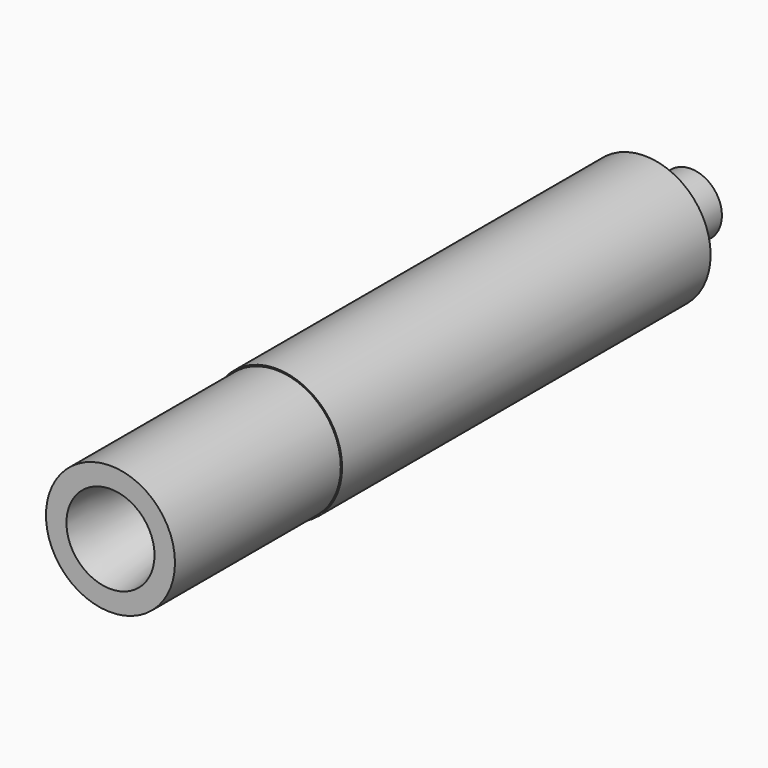
from build123d import *

# Parameters (mm, degrees)
F0_R      = 6
F1_DEPTH  = 100
F0_R_2    = 12.45
F0_R_3    = 9.0550614865
F0_R_4    = 6.35
F2_DEPTH  = 40
F3_R      = 8.5
F4_DEPTH  = 30
F4_TAPER  = 8
F0_R_5    = 12.7
F5_DEPTH  = 88.9
F6_DEPTH  = 5
F7_DEPTH  = 5
F8_R      = 9.0550619
F9_DEPTH  = 5
F10_DEPTH = 5


with BuildPart() as f1:
    # F0 (on Front) → F1 (new body)
    with BuildSketch(Plane.XZ):
        Circle(F0_R)
    extrude(amount=-F1_DEPTH)

    # F0 (on Front) → F2 (join)
    with BuildSketch(Plane.XZ):
        Circle(F0_R_2)
        Circle(F0_R_3, mode=Mode.SUBTRACT)
        Circle(F0_R_3)
        Circle(F0_R_4, mode=Mode.SUBTRACT)
        Circle(F0_R_3)
        Circle(F0_R_4, mode=Mode.SUBTRACT)
        Circle(F0_R_4)
        Circle(F0_R, mode=Mode.SUBTRACT)
        Circle(F0_R)
    extrude(amount=F2_DEPTH)

    # F3 (on face) → F4 (cut)
    with BuildSketch(Plane.XZ.offset(40)):
        Circle(F3_R)
    extrude(amount=-F4_DEPTH, taper=F4_TAPER, mode=Mode.SUBTRACT)


with BuildPart() as f5:
    # F0 (on Front) → F5 (new body)
    with BuildSketch(Plane.XZ):
        Circle(F0_R_5)
        Circle(F0_R_2, mode=Mode.SUBTRACT)
        Circle(F0_R_2)
        Circle(F0_R_3, mode=Mode.SUBTRACT)
        Circle(F0_R_3)
        Circle(F0_R_4, mode=Mode.SUBTRACT)
    extrude(amount=-F5_DEPTH)

    # F0 (on Front) → F6 (cut)
    with BuildSketch(Plane.XZ):
        Circle(F0_R_3)
        Circle(F0_R_4, mode=Mode.SUBTRACT)
    extrude(amount=-F6_DEPTH, mode=Mode.SUBTRACT)

    # F8 (on face) → F9 (cut)
    with BuildSketch(Plane(origin=(0, 88.9, 0), x_dir=(-1, 0, 0), z_dir=(0, 1, 0))):
        Circle(F8_R)
    extrude(amount=-F9_DEPTH, mode=Mode.SUBTRACT)


with BuildPart() as f7:
    # F0 (on Front) → F7 (new body)
    with BuildSketch(Plane.XZ):
        Circle(F0_R_3)
        Circle(F0_R_4, mode=Mode.SUBTRACT)
        Circle(F0_R_4)
        Circle(F0_R, mode=Mode.SUBTRACT)
    extrude(amount=-F7_DEPTH)


with BuildPart() as f10:
    # F10 (new): a face of the model
    f10_faces = [f5.part.faces().sort_by_distance(p)[0] for p in [
        (8.7989460731, 83.9, 0),
    ]]
    extrude(f10_faces, amount=F10_DEPTH)


solid = Compound([f1.part, f5.part, f7.part, f10.part])
